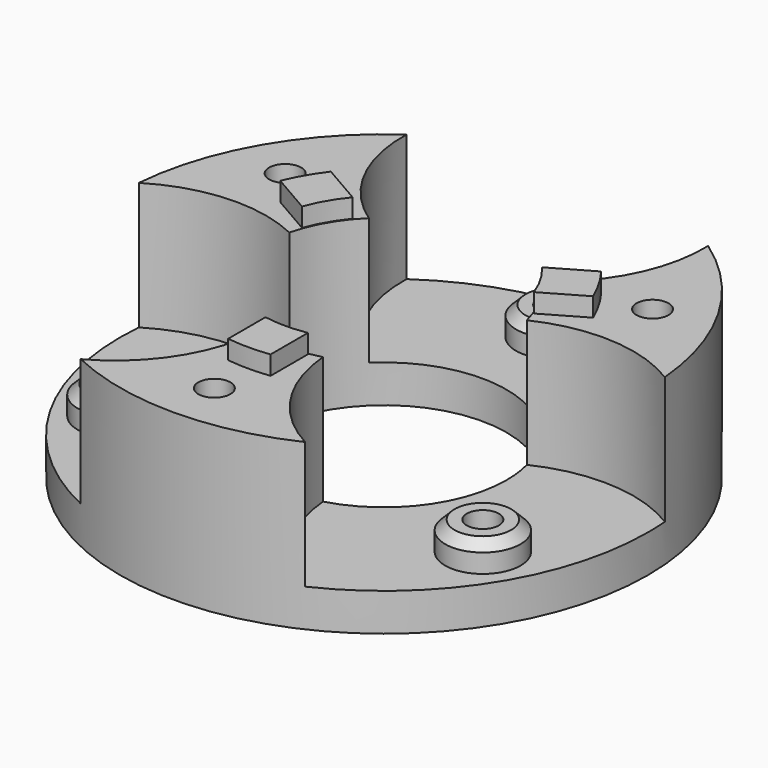
from build123d import *

# Parameters (mm, degrees)
SKETCH005_R           = 28
SKETCH005_R_2         = 13
PAD002_DEPTH          = 17.5
SKETCH007_R           = 16
POCKET003_DEPTH       = 13.5
SKETCH006_R           = 4
PAD003_DEPTH          = 3
SKETCH008_R           = 1.7
POCKET004_DEPTH       = 17.501
PAD_DEPTH             = 2
POLARPATTERN_COUNT    = 3
CHAMFER_SIZE          = 1
CHAMFER001_SIZE       = 1
CHAMFER002_SIZE       = 1
SKETCH_R              = 3.5
POCKET_DEPTH          = 1.5
POLARPATTERN001_COUNT = 6
CHAMFER003_SIZE       = 1.5
CHAMFER004_SIZE       = 1.5
CHAMFER005_SIZE       = 1.5
CHAMFER006_SIZE       = 1.5
CHAMFER007_SIZE       = 1.5
CHAMFER008_SIZE       = 1.5


with BuildPart() as part:
    # Sketch005 → Pad002 (new body)
    with BuildSketch(Plane.XY):
        Circle(SKETCH005_R)
        Circle(SKETCH005_R_2, mode=Mode.SUBTRACT)
    extrude(amount=PAD002_DEPTH)

    # Sketch007 → Pocket003 (cut)
    with BuildSketch(Plane.XY.offset(17.5)):
        with Locations((0, 22.5)):
            Circle(SKETCH007_R)
        with Locations((-19.485572, -11.25)):
            Circle(SKETCH007_R)
        with Locations((19.485572, -11.25)):
            Circle(SKETCH007_R)
    extrude(amount=-POCKET003_DEPTH, mode=Mode.SUBTRACT)

    # Sketch006 → Pad003 (new body)
    with BuildSketch(Plane.XY.offset(4)):
        with Locations((0, 22.5)):
            Circle(SKETCH006_R)
        with Locations((-19.485572, -11.25)):
            Circle(SKETCH006_R)
        with Locations((19.485572, -11.25)):
            Circle(SKETCH006_R)
    extrude(amount=PAD003_DEPTH)

    # Sketch008 → Pocket004 (cut, through all)
    with BuildSketch(Plane.XY.offset(17.5)):
        with Locations((0, 22.5)):
            Circle(SKETCH008_R)
        with Locations((-19.485572, -11.25)):
            Circle(SKETCH008_R)
        with Locations((19.485572, -11.25)):
            Circle(SKETCH008_R)
        with Locations((-19.485572, 11.25)):
            Circle(SKETCH008_R)
        with Locations((19.485572, 11.25)):
            Circle(SKETCH008_R)
        with Locations((0, -22.5)):
            Circle(SKETCH008_R)
    extrude(amount=-POCKET004_DEPTH, mode=Mode.SUBTRACT)

    # Sketch009 → Pad (new body)
    with BuildSketch(Plane.XY.offset(17.5)):
        with BuildLine():
            Line((-2.25, -12.905328), (-2.25, -17.858821))
            ThreePointArc((-2.25, -17.858821), (0, -18), (2.25, -17.858821))
            Line((2.25, -12.905328), (2.25, -17.858821))
            ThreePointArc((-2.25, -12.905328), (0, -13.1), (2.25, -12.905328))
        make_face()
    pad = extrude(amount=PAD_DEPTH)

    # PolarPattern: Pad ×3 about axis
    polarpattern_axis = Axis((0, 0, 17.5), (0, 0, 1))
    for i in range(1, POLARPATTERN_COUNT):
        add(pad.rotate(polarpattern_axis, i * 360 / POLARPATTERN_COUNT))

    # Chamfer
    chamfer_edges = [part.edges().sort_by_distance(p)[0] for p in [
        (-4, 22.5, 7),
    ]]
    chamfer(chamfer_edges, length=CHAMFER_SIZE)

    # Chamfer001
    chamfer001_edges = [part.edges().sort_by_distance(p)[0] for p in [
        (-23.485572, -11.25, 7),
    ]]
    chamfer(chamfer001_edges, length=CHAMFER001_SIZE)

    # Chamfer002
    chamfer002_edges = [part.edges().sort_by_distance(p)[0] for p in [
        (15.485572, -11.25, 7),
    ]]
    chamfer(chamfer002_edges, length=CHAMFER002_SIZE)

    # Sketch → Pocket (cut)
    with BuildSketch(Plane(origin=(0, 0, 0), x_dir=(1, 0, 0), z_dir=(0, 0, -1))):
        with Locations((0, 22.5)):
            Circle(SKETCH_R)
    pocket = extrude(amount=-POCKET_DEPTH, mode=Mode.SUBTRACT)

    # PolarPattern001: Pocket ×6 about axis
    polarpattern001_axis = Axis((0, 0, 0), (0, 0, -1))
    for i in range(1, POLARPATTERN001_COUNT):
        add(pocket.rotate(polarpattern001_axis, i * 360 / POLARPATTERN001_COUNT), mode=Mode.SUBTRACT)

    # Chamfer003
    chamfer003_edges = [part.edges().sort_by_distance(p)[0] for p in [
        (-1.7, 22.5, 1.5),
    ]]
    chamfer(chamfer003_edges, length=CHAMFER003_SIZE)

    # Chamfer004
    chamfer004_edges = [part.edges().sort_by_distance(p)[0] for p in [
        (-21.185572, 11.25, 1.5),
    ]]
    chamfer(chamfer004_edges, length=CHAMFER004_SIZE)

    # Chamfer005
    chamfer005_edges = [part.edges().sort_by_distance(p)[0] for p in [
        (17.785572, -11.25, 1.5),
    ]]
    chamfer(chamfer005_edges, length=CHAMFER005_SIZE)

    # Chamfer006
    chamfer006_edges = [part.edges().sort_by_distance(p)[0] for p in [
        (17.785572, 11.25, 1.5),
    ]]
    chamfer(chamfer006_edges, length=CHAMFER006_SIZE)

    # Chamfer007
    chamfer007_edges = [part.edges().sort_by_distance(p)[0] for p in [
        (-21.185572, -11.25, 1.5),
    ]]
    chamfer(chamfer007_edges, length=CHAMFER007_SIZE)

    # Chamfer008
    chamfer008_edges = [part.edges().sort_by_distance(p)[0] for p in [
        (-1.7, -22.5, 1.5),
    ]]
    chamfer(chamfer008_edges, length=CHAMFER008_SIZE)


solid = part.part
